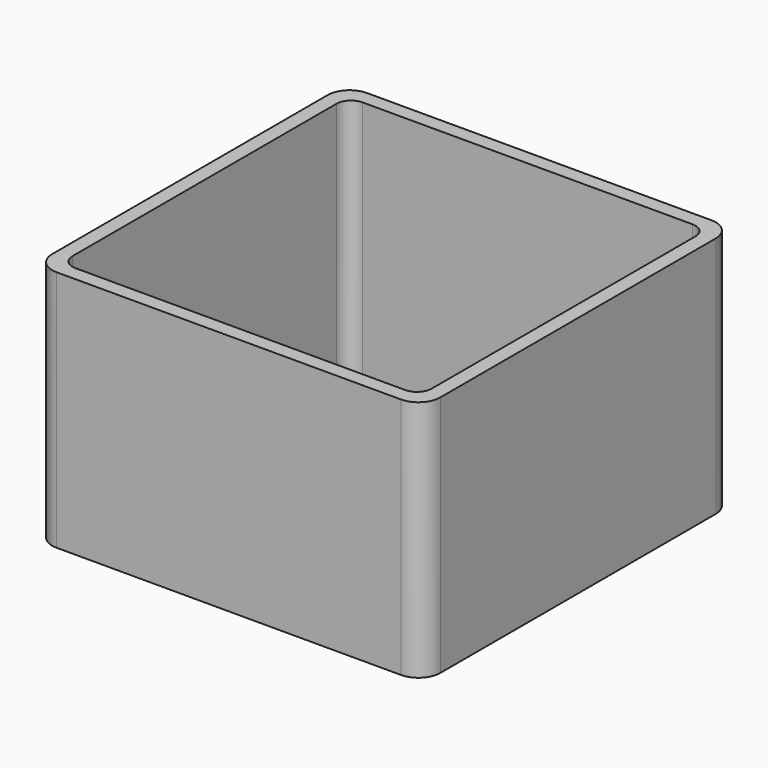
from build123d import *

# Parameters (mm, degrees)
EXTRUDE_DEPTH = 50


with BuildPart() as part:
    # Sketch → Extrude (new body)
    with BuildSketch(Plane.XY):
        with BuildLine():
            Line((-35.5, 40), (35.5, 40))
            ThreePointArc((40, 35.5), (38.681981, 38.681981), (35.5, 40))
            Line((40, 35.5), (40, -35.5))
            ThreePointArc((35.5, -40), (38.681981, -38.681981), (40, -35.5))
            Line((35.5, -40), (-35.5, -40))
            ThreePointArc((-40, -35.5), (-38.681981, -38.681981), (-35.5, -40))
            Line((-40, -35.5), (-40, 35.5))
            ThreePointArc((-35.5, 40), (-38.681981, 38.681981), (-40, 35.5))
        make_face()
        with BuildLine():
            Line((-34, 37), (34, 37))
            ThreePointArc((37, 34), (36.12132, 36.12132), (34, 37))
            Line((37, 34), (37, -34))
            ThreePointArc((34, -37), (36.12132, -36.12132), (37, -34))
            Line((34, -37), (-34, -37))
            ThreePointArc((-37, -34), (-36.12132, -36.12132), (-34, -37))
            Line((-37, -34), (-37, 34))
            ThreePointArc((-34, 37), (-36.12132, 36.12132), (-37, 34))
        make_face(mode=Mode.SUBTRACT)
    extrude(amount=EXTRUDE_DEPTH)


solid = part.part
